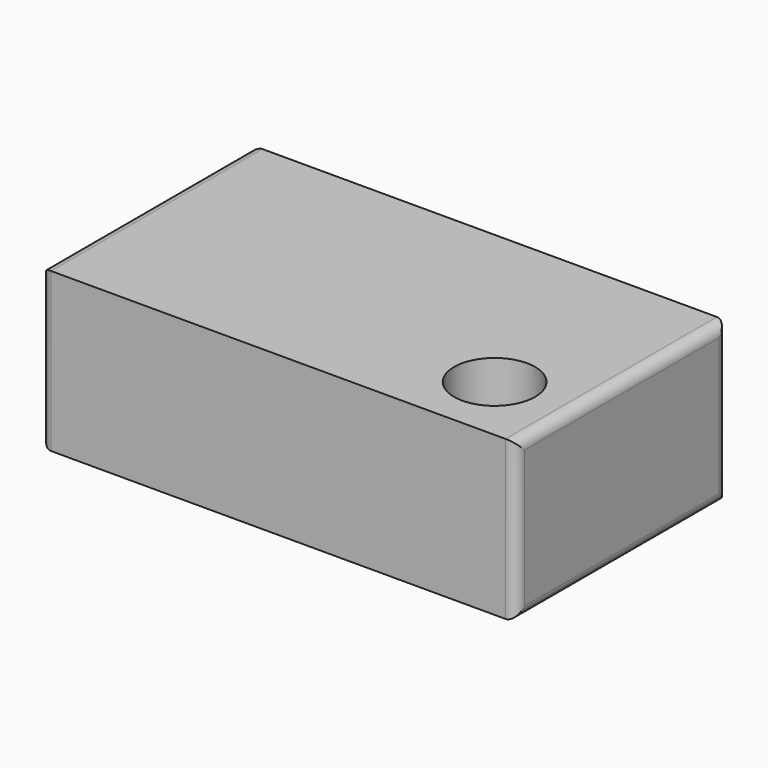
from build123d import *

# Parameters (mm, degrees)
F0_W     = 228.6
F0_H     = 127
F0_R     = 19.492396
F1_DEPTH = 76.2
F2_R     = 5.08
F3_R     = 5.08
F4_DEPTH = 25.4


with BuildPart() as f1:
    # F0 (on Top) → F1 (new body)
    with BuildSketch(Plane.XY):
        Rectangle(F0_W, F0_H)
        with Locations((77.086605, -29.871058)):
            Circle(F0_R, mode=Mode.SUBTRACT)
    extrude(amount=F1_DEPTH)

    # F2
    f2_edges = [f1.edges().sort_by_distance(p)[0] for p in [
        (-114.3, 63.5, 38.1),
        (-114.3, -63.5, 38.1),
        (-114.3, 0, 0),
        (-114.3, 0, 76.2),
    ]]
    fillet(f2_edges, radius=F2_R)

    # F3
    f3_edges = [f1.edges().sort_by_distance(p)[0] for p in [
        (114.3, -63.5, 38.1),
        (114.3, 63.5, 38.1),
        (114.3, 0, 0),
        (114.3, 0, 76.2),
    ]]
    fillet(f3_edges, radius=F3_R)

    # F0 (on Top) → F4 (cut)
    with BuildSketch(Plane.XY):
        with Locations((77.086605, -29.871058)):
            Circle(F0_R)
    extrude(amount=F4_DEPTH, mode=Mode.SUBTRACT)


solid = f1.part
